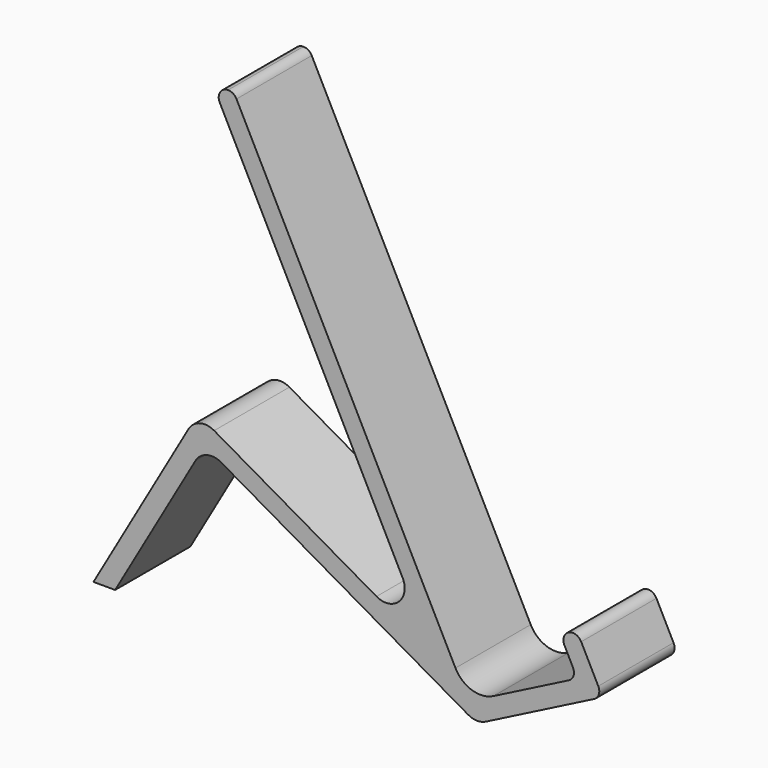
from build123d import *

# Parameters (mm, degrees)
F1_DEPTH = 10


with BuildPart() as f1:
    # F0 (on Front) → F1 (new body)
    with BuildSketch(Plane.XZ):
        with BuildLine():
            Line((-2.269952, 4.455033), (-25.55015, 50.144992))
            ThreePointArc((-25.55015, 50.144992), (-25.918658, 50.543642), (-26.441156, 50.691002))
            ThreePointArc((-26.441156, 50.691002), (-27.293796, 50.2135), (-27.332163, 49.237011))
            Line((-27.332163, 49.237011), (-7.884977, 11.06976))
            ThreePointArc((-7.884977, 11.06976), (-8.288494, 8.712727), (-10.662719, 8.427269))
            Line((-10.662719, 8.427269), (-27.922488, 18.335576))
            ThreePointArc((-27.922488, 18.335576), (-29.440613, 18.531637), (-30.652726, 17.596796))
            Line((-30.652726, 17.596796), (-40.75451, 0))
            Line((-40.75451, 0), (-38.448383, 0))
            Line((-38.448383, 0), (-29.913946, 14.866557))
            ThreePointArc((-29.913946, 14.866557), (-28.701833, 15.801398), (-27.183707, 15.605338))
            Line((-27.183707, 15.605338), (-0.938997, 0.539049))
            ThreePointArc((-0.938997, 0.539049), (0.006842, 0.274181), (0.964713, 0.491546))
            Line((0.964713, 0.491546), (11.583085, 5.901876))
            Line((11.583085, 5.901876), (12.474091, 6.355867))
            ThreePointArc((12.474091, 6.355867), (12.971157, 6.937857), (12.911107, 7.700864))
            Line((12.911107, 7.700864), (11.095145, 11.26489))
            ThreePointArc((11.095145, 11.26489), (10.513156, 11.761956), (9.750148, 11.701906))
            ThreePointArc((9.750148, 11.701906), (9.253082, 11.119917), (9.313132, 10.356909))
            Line((9.313132, 10.356909), (10.221113, 8.574896))
            ThreePointArc((10.221113, 8.574896), (10.281163, 7.811889), (9.784097, 7.229899))
            Line((9.784097, 7.229899), (1.765039, 3.143985))
            ThreePointArc((1.765039, 3.143985), (-0.523984, 2.963835), (-2.269952, 4.455033))
        make_face()
    extrude(amount=F1_DEPTH)


solid = f1.part
